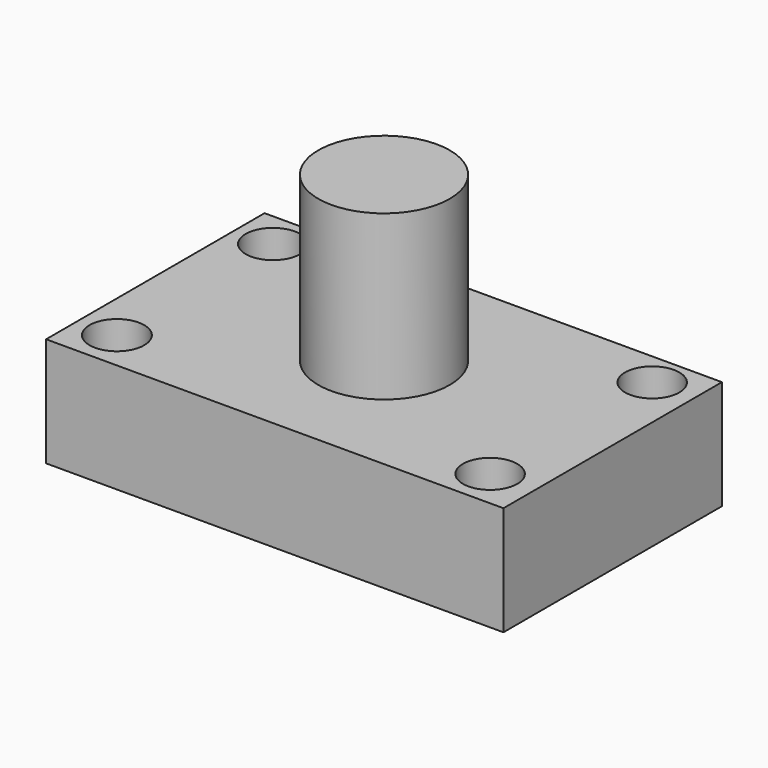
from build123d import *

# Parameters (mm, degrees)
F0_W     = 106.33587
F0_H     = 63.491806
F1_DEPTH = 25.4
F2_R     = 6.35
F2_R_2   = 6.349997
F2_R_3   = 6.313875
F3_DEPTH = 25.4
F4_R     = 15.282294
F5_DEPTH = 38.1


with BuildPart() as f1:
    # F0 (on Top) → F1 (new body)
    with BuildSketch(Plane.XY):
        Rectangle(F0_W, F0_H)
    extrude(amount=F1_DEPTH)

    # F2 (on face) → F3 (cut)
    with BuildSketch(Plane.XY.offset(25.4)):
        with Locations((-44.392645, 23.228709)):
            Circle(F2_R)
        with Locations((-44.13455, -22.45442)):
            Circle(F2_R_2)
        with Locations((43.360256, 23.744902)):
            Circle(F2_R_3)
        with Locations((42.844065, -22.712516)):
            Circle(F2_R_3)
    extrude(amount=-F3_DEPTH, mode=Mode.SUBTRACT)

    # F4 (on face) → F5 (join)
    with BuildSketch(Plane.XY.offset(25.4)):
        Circle(F4_R)
    extrude(amount=F5_DEPTH)


solid = f1.part
